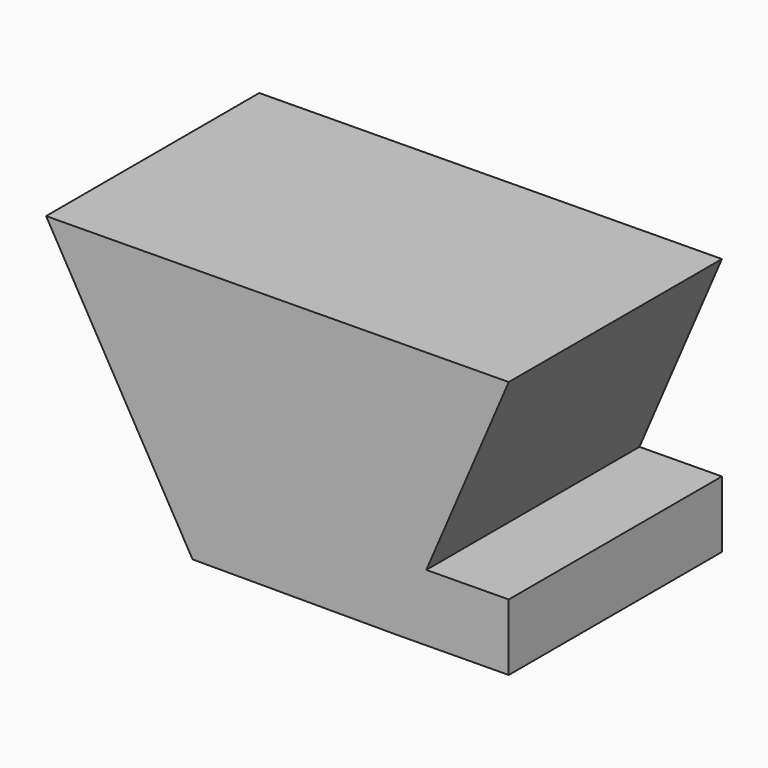
from build123d import *

# Parameters (mm, degrees)
F1_DEPTH = 39.878


with BuildPart() as f1:
    # F0 (on Front) → F1 (new body)
    with BuildSketch(Plane.XZ):
        Polygon((14.062366, 8.441711), (-55.177242, 7.794467), (-33.257794, -30.311951), (-2.559891, -30.311951), (1.725662, -20.320477), align=None)
        Polygon((1.725662, -20.320477), (-2.559891, -30.311951), (14.062366, -30.156568), (14.062366, -20.205155), align=None)
    extrude(amount=F1_DEPTH)


solid = f1.part
